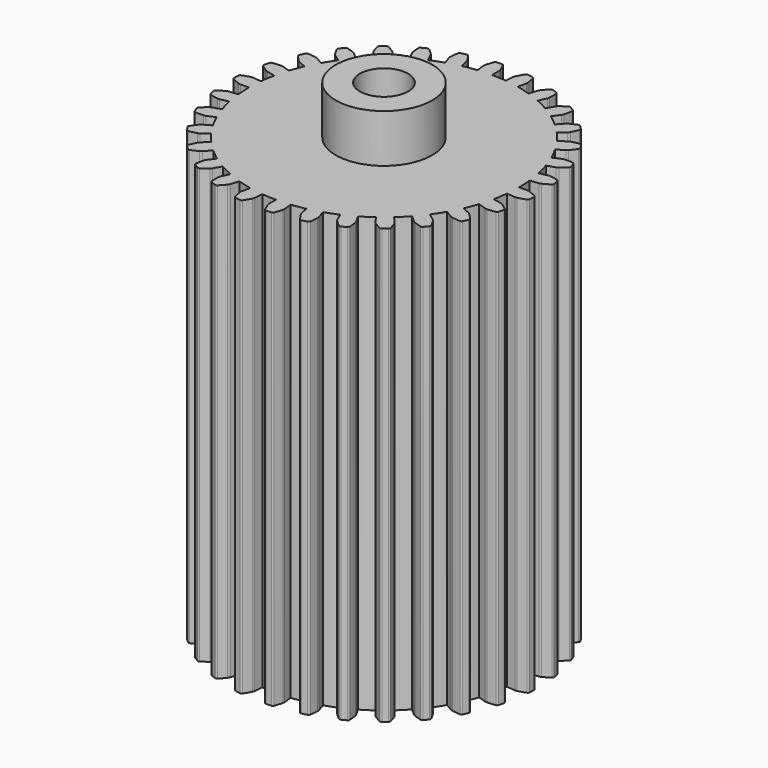
from build123d import *

# Parameters (mm, degrees)
F0_R     = 12.7
F1_DEPTH = 114.3
F2_DEPTH = 127
F3_D     = 12.7
F3_DEPTH = 127


with BuildPart() as f1:
    # F0 (on Top) → F1 (new body)
    with BuildSketch(Plane.XY):
        with BuildLine():
            ThreePointArc((-0.975145, 40.337935), (-1.170075, 40.5446), (-1.445487, 40.614285))
            ThreePointArc((-1.445487, 40.614285), (-2.126933, 40.584304), (-2.80778, 40.542891))
            ThreePointArc((-2.80778, 40.542891), (-3.0744, 40.444799), (-3.246659, 40.21889))
            ThreePointArc((-3.246659, 40.21889), (-3.605121, 39.208473), (-3.908206, 38.180088))
            ThreePointArc((-3.908206, 38.180088), (-3.95659, 37.89551), (-3.952642, 37.606876))
            Line((-3.952642, 37.606876), (-3.717032, 35.365199))
            ThreePointArc((-3.717032, 35.365199), (-5.56281, 35.122197), (-7.39334, 34.782929))
            Line((-7.39334, 34.782929), (-7.861978, 36.987698))
            ThreePointArc((-7.861978, 36.987698), (-7.947416, 37.263426), (-8.081371, 37.519124))
            ThreePointArc((-8.081371, 37.519124), (-8.687411, 38.403518), (-9.340564, 39.253711))
            ThreePointArc((-9.340564, 39.253711), (-9.574202, 39.415331), (-9.858084, 39.426232))
            ThreePointArc((-9.858084, 39.426232), (-10.518406, 39.255226), (-11.175764, 39.073161))
            ThreePointArc((-11.175764, 39.073161), (-11.416163, 38.921779), (-11.537689, 38.664993))
            ThreePointArc((-11.537689, 38.664993), (-11.67824, 37.602127), (-11.760889, 36.5332))
            ThreePointArc((-11.760889, 36.5332), (-11.749049, 36.244781), (-11.685176, 35.963275))
            Line((-11.685176, 35.963275), (-10.988644, 33.81957))
            ThreePointArc((-10.988644, 33.81957), (-12.743564, 33.19812), (-14.463555, 32.485676))
            Line((-14.463555, 32.485676), (-15.38035, 34.544831))
            ThreePointArc((-15.38035, 34.544831), (-15.521248, 34.79677), (-15.705438, 35.019029))
            ThreePointArc((-15.705438, 35.019029), (-16.48211, 35.758094), (-17.297756, 36.45391))
            ThreePointArc((-17.297756, 36.45391), (-17.559891, 36.563423), (-17.839836, 36.515063))
            ThreePointArc((-17.839836, 36.515063), (-18.450174, 36.210505), (-19.055314, 35.895746))
            ThreePointArc((-19.055314, 35.895746), (-19.258985, 35.697691), (-19.324467, 35.421249))
            ThreePointArc((-19.324467, 35.421249), (-19.240965, 34.352388), (-19.099565, 33.289635))
            ThreePointArc((-19.099565, 33.289635), (-19.028017, 33.009981), (-18.907013, 32.747907))
            Line((-18.907013, 32.747907), (-17.78, 30.795863))
            ThreePointArc((-17.78, 30.795863), (-19.367364, 29.823125), (-20.901644, 28.768644))
            Line((-20.901644, 28.768644), (-22.226526, 30.592189))
            ThreePointArc((-22.226526, 30.592189), (-22.416727, 30.809328), (-22.643102, 30.988435))
            ThreePointArc((-22.643102, 30.988435), (-23.556463, 31.549871), (-24.498953, 32.060899))
            ThreePointArc((-24.498953, 32.060899), (-24.778129, 32.113518), (-25.041902, 32.008011))
            ThreePointArc((-25.041902, 32.008011), (-25.575581, 31.583212), (-26.102055, 31.149516))
            ThreePointArc((-26.102055, 31.149516), (-26.260098, 30.913443), (-26.266673, 30.629427))
            ThreePointArc((-26.266673, 30.629427), (-25.962767, 29.601284), (-25.603498, 28.591154))
            ThreePointArc((-25.603498, 28.591154), (-25.475371, 28.332487), (-25.302522, 28.101297))
            Line((-25.302522, 28.101297), (-23.794284, 26.42623))
            ThreePointArc((-23.794284, 26.42623), (-25.144717, 25.144717), (-26.42623, 23.794284))
            Line((-26.42623, 23.794284), (-28.101297, 25.302522))
            ThreePointArc((-28.101297, 25.302522), (-28.332487, 25.475371), (-28.591154, 25.603498))
            ThreePointArc((-28.591154, 25.603498), (-29.601284, 25.962767), (-30.629427, 26.266673))
            ThreePointArc((-30.629427, 26.266673), (-30.913443, 26.260098), (-31.149516, 26.102055))
            ThreePointArc((-31.149516, 26.102055), (-31.583212, 25.575581), (-32.008011, 25.041902))
            ThreePointArc((-32.008011, 25.041902), (-32.113518, 24.778129), (-32.060899, 24.498953))
            ThreePointArc((-32.060899, 24.498953), (-31.549871, 23.556463), (-30.988435, 22.643102))
            ThreePointArc((-30.988435, 22.643102), (-30.809328, 22.416727), (-30.592189, 22.226526))
            Line((-30.592189, 22.226526), (-28.768644, 20.901644))
            ThreePointArc((-28.768644, 20.901644), (-29.823125, 19.367364), (-30.795863, 17.78))
            Line((-30.795863, 17.78), (-32.747907, 18.907013))
            ThreePointArc((-32.747907, 18.907013), (-33.009981, 19.028017), (-33.289635, 19.099565))
            ThreePointArc((-33.289635, 19.099565), (-34.352388, 19.240965), (-35.421249, 19.324467))
            ThreePointArc((-35.421249, 19.324467), (-35.697691, 19.258985), (-35.895746, 19.055314))
            ThreePointArc((-35.895746, 19.055314), (-36.210505, 18.450174), (-36.515063, 17.839836))
            ThreePointArc((-36.515063, 17.839836), (-36.563423, 17.559891), (-36.45391, 17.297756))
            ThreePointArc((-36.45391, 17.297756), (-35.758094, 16.48211), (-35.019029, 15.705438))
            ThreePointArc((-35.019029, 15.705438), (-34.79677, 15.521248), (-34.544831, 15.38035))
            Line((-34.544831, 15.38035), (-32.485676, 14.463555))
            ThreePointArc((-32.485676, 14.463555), (-33.19812, 12.743564), (-33.81957, 10.988644))
            Line((-33.81957, 10.988644), (-35.963275, 11.685176))
            ThreePointArc((-35.963275, 11.685176), (-36.244781, 11.749049), (-36.5332, 11.760889))
            ThreePointArc((-36.5332, 11.760889), (-37.602127, 11.67824), (-38.664993, 11.537689))
            ThreePointArc((-38.664993, 11.537689), (-38.921779, 11.416163), (-39.073161, 11.175764))
            ThreePointArc((-39.073161, 11.175764), (-39.255226, 10.518406), (-39.426232, 9.858084))
            ThreePointArc((-39.426232, 9.858084), (-39.415331, 9.574202), (-39.253711, 9.340564))
            ThreePointArc((-39.253711, 9.340564), (-38.403518, 8.687411), (-37.519124, 8.081371))
            ThreePointArc((-37.519124, 8.081371), (-37.263426, 7.947416), (-36.987698, 7.861978))
            Line((-36.987698, 7.861978), (-34.782929, 7.39334))
            ThreePointArc((-34.782929, 7.39334), (-35.122197, 5.56281), (-35.365199, 3.717032))
            Line((-35.365199, 3.717032), (-37.606876, 3.952642))
            ThreePointArc((-37.606876, 3.952642), (-37.89551, 3.95659), (-38.180088, 3.908206))
            ThreePointArc((-38.180088, 3.908206), (-39.208473, 3.605121), (-40.21889, 3.246659))
            ThreePointArc((-40.21889, 3.246659), (-40.444799, 3.0744), (-40.542891, 2.80778))
            ThreePointArc((-40.542891, 2.80778), (-40.584304, 2.126933), (-40.614285, 1.445487))
            ThreePointArc((-40.614285, 1.445487), (-40.5446, 1.170075), (-40.337935, 0.975145))
            ThreePointArc((-40.337935, 0.975145), (-39.370523, 0.51303), (-38.379452, 0.104109))
            ThreePointArc((-38.379452, 0.104109), (-38.101491, 0.026244), (-37.814025, 0))
            Line((-37.814025, 0), (-35.56, 0))
            ThreePointArc((-35.56, 0), (-35.511266, -1.861067), (-35.365199, -3.717032))
            Line((-35.365199, -3.717032), (-37.606876, -3.952642))
            ThreePointArc((-37.606876, -3.952642), (-37.890024, -4.008791), (-38.158323, -4.115284))
            ThreePointArc((-38.158323, -4.115284), (-39.101221, -4.625559), (-40.015029, -5.186266))
            ThreePointArc((-40.015029, -5.186266), (-40.200186, -5.40173), (-40.240701, -5.682917))
            ThreePointArc((-40.240701, -5.682917), (-40.139654, -6.357497), (-40.027299, -7.030285))
            ThreePointArc((-40.027299, -7.030285), (-39.901876, -7.28519), (-39.659199, -7.432892))
            ThreePointArc((-39.659199, -7.432892), (-38.616847, -7.683773), (-37.562415, -7.877703))
            ThreePointArc((-37.562415, -7.877703), (-37.274339, -7.896075), (-36.987698, -7.861978))
            Line((-36.987698, -7.861978), (-34.782929, -7.39334))
            ThreePointArc((-34.782929, -7.39334), (-34.348322, -9.203605), (-33.81957, -10.988644))
            Line((-33.81957, -10.988644), (-35.963275, -11.685176))
            ThreePointArc((-35.963275, -11.685176), (-36.228562, -11.798968), (-36.468857, -11.958917))
            ThreePointArc((-36.468857, -11.958917), (-37.285058, -12.654081), (-38.06232, -13.392526))
            ThreePointArc((-38.06232, -13.392526), (-38.198633, -13.641778), (-38.179801, -13.925244))
            ThreePointArc((-38.179801, -13.925244), (-37.940709, -14.564073), (-37.690928, -15.1988))
            ThreePointArc((-37.690928, -15.1988), (-37.515248, -15.422058), (-37.247165, -15.516077))
            ThreePointArc((-37.247165, -15.516077), (-36.17543, -15.544758), (-35.103719, -15.515221))
            ThreePointArc((-35.103719, -15.515221), (-34.818119, -15.473297), (-34.544831, -15.38035))
            Line((-34.544831, -15.38035), (-32.485676, -14.463555))
            ThreePointArc((-32.485676, -14.463555), (-31.684192, -16.143902), (-30.795863, -17.78))
            Line((-30.795863, -17.78), (-32.747907, -18.907013))
            ThreePointArc((-32.747907, -18.907013), (-32.983737, -19.073474), (-33.185526, -19.279887))
            ThreePointArc((-33.185526, -19.279887), (-33.839358, -20.129558), (-34.446104, -21.013468))
            ThreePointArc((-34.446104, -21.013468), (-34.527616, -21.285615), (-34.450259, -21.558971))
            ThreePointArc((-34.450259, -21.558971), (-34.083572, -22.13413), (-33.707283, -22.703054))
            ThreePointArc((-33.707283, -22.703054), (-33.489023, -22.884908), (-33.207251, -22.921134))
            ThreePointArc((-33.207251, -22.921134), (-32.152973, -22.726363), (-31.110823, -22.47465))
            ThreePointArc((-31.110823, -22.47465), (-30.84018, -22.374263), (-30.592189, -22.226526))
            Line((-30.592189, -22.226526), (-28.768644, -20.901644))
            ThreePointArc((-28.768644, -20.901644), (-27.63531, -22.378633), (-26.42623, -23.794284))
            Line((-26.42623, -23.794284), (-28.101297, -25.302522))
            ThreePointArc((-28.101297, -25.302522), (-28.297365, -25.514377), (-28.451829, -25.758234))
            ThreePointArc((-28.451829, -25.758234), (-28.914717, -26.725277), (-29.324428, -27.716021))
            ThreePointArc((-29.324428, -27.716021), (-29.347577, -27.999168), (-29.215076, -28.250468))
            ThreePointArc((-29.215076, -28.250468), (-28.73682, -28.73682), (-28.250468, -29.215076))
            ThreePointArc((-28.250468, -29.215076), (-27.999168, -29.347577), (-27.716021, -29.324428))
            ThreePointArc((-27.716021, -29.324428), (-26.725277, -28.914717), (-25.758234, -28.451829))
            ThreePointArc((-25.758234, -28.451829), (-25.514377, -28.297365), (-25.302522, -28.101297))
            Line((-25.302522, -28.101297), (-23.794284, -26.42623))
            ThreePointArc((-23.794284, -26.42623), (-22.378633, -27.63531), (-20.901644, -28.768644))
            Line((-20.901644, -28.768644), (-22.226526, -30.592189))
            ThreePointArc((-22.226526, -30.592189), (-22.374263, -30.84018), (-22.47465, -31.110823))
            ThreePointArc((-22.47465, -31.110823), (-22.726363, -32.152973), (-22.921134, -33.207251))
            ThreePointArc((-22.921134, -33.207251), (-22.884908, -33.489023), (-22.703054, -33.707283))
            ThreePointArc((-22.703054, -33.707283), (-22.13413, -34.083572), (-21.558971, -34.450259))
            ThreePointArc((-21.558971, -34.450259), (-21.285615, -34.527616), (-21.013468, -34.446104))
            ThreePointArc((-21.013468, -34.446104), (-20.129558, -33.839358), (-19.279887, -33.185526))
            ThreePointArc((-19.279887, -33.185526), (-19.073474, -32.983737), (-18.907013, -32.747907))
            Line((-18.907013, -32.747907), (-17.78, -30.795863))
            ThreePointArc((-17.78, -30.795863), (-16.143902, -31.684192), (-14.463555, -32.485676))
            Line((-14.463555, -32.485676), (-15.38035, -34.544831))
            ThreePointArc((-15.38035, -34.544831), (-15.473297, -34.818119), (-15.515221, -35.103719))
            ThreePointArc((-15.515221, -35.103719), (-15.544758, -36.17543), (-15.516077, -37.247165))
            ThreePointArc((-15.516077, -37.247165), (-15.422058, -37.515248), (-15.1988, -37.690928))
            ThreePointArc((-15.1988, -37.690928), (-14.564073, -37.940709), (-13.925244, -38.179801))
            ThreePointArc((-13.925244, -38.179801), (-13.641778, -38.198633), (-13.392526, -38.06232))
            ThreePointArc((-13.392526, -38.06232), (-12.654081, -37.285058), (-11.958917, -36.468857))
            ThreePointArc((-11.958917, -36.468857), (-11.798968, -36.228562), (-11.685176, -35.963275))
            Line((-11.685176, -35.963275), (-10.988644, -33.81957))
            ThreePointArc((-10.988644, -33.81957), (-9.203605, -34.348322), (-7.39334, -34.782929))
            Line((-7.39334, -34.782929), (-7.861978, -36.987698))
            ThreePointArc((-7.861978, -36.987698), (-7.896075, -37.274339), (-7.877703, -37.562415))
            ThreePointArc((-7.877703, -37.562415), (-7.683773, -38.616847), (-7.432892, -39.659199))
            ThreePointArc((-7.432892, -39.659199), (-7.28519, -39.901876), (-7.030285, -40.027299))
            ThreePointArc((-7.030285, -40.027299), (-6.357497, -40.139654), (-5.682917, -40.240701))
            ThreePointArc((-5.682917, -40.240701), (-5.40173, -40.200186), (-5.186266, -40.015029))
            ThreePointArc((-5.186266, -40.015029), (-4.625559, -39.101221), (-4.115284, -38.158323))
            ThreePointArc((-4.115284, -38.158323), (-4.008791, -37.890024), (-3.952642, -37.606876))
            Line((-3.952642, -37.606876), (-3.717032, -35.365199))
            ThreePointArc((-3.717032, -35.365199), (-1.861067, -35.511266), (0, -35.56))
            Line((0, -35.56), (0, -37.814025))
            ThreePointArc((0, -37.814025), (0.026244, -38.101491), (0.104109, -38.379452))
            ThreePointArc((0.104109, -38.379452), (0.51303, -39.370523), (0.975145, -40.337935))
            ThreePointArc((0.975145, -40.337935), (1.170075, -40.5446), (1.445487, -40.614285))
            ThreePointArc((1.445487, -40.614285), (2.126933, -40.584304), (2.80778, -40.542891))
            ThreePointArc((2.80778, -40.542891), (3.0744, -40.444799), (3.246659, -40.21889))
            ThreePointArc((3.246659, -40.21889), (3.605121, -39.208473), (3.908206, -38.180088))
            ThreePointArc((3.908206, -38.180088), (3.95659, -37.89551), (3.952642, -37.606876))
            Line((3.952642, -37.606876), (3.717032, -35.365199))
            ThreePointArc((3.717032, -35.365199), (5.56281, -35.122197), (7.39334, -34.782929))
            Line((7.39334, -34.782929), (7.861978, -36.987698))
            ThreePointArc((7.861978, -36.987698), (7.947416, -37.263426), (8.081371, -37.519124))
            ThreePointArc((8.081371, -37.519124), (8.687411, -38.403518), (9.340564, -39.253711))
            ThreePointArc((9.340564, -39.253711), (9.574202, -39.415331), (9.858084, -39.426232))
            ThreePointArc((9.858084, -39.426232), (10.518406, -39.255226), (11.175764, -39.073161))
            ThreePointArc((11.175764, -39.073161), (11.416163, -38.921779), (11.537689, -38.664993))
            ThreePointArc((11.537689, -38.664993), (11.67824, -37.602127), (11.760889, -36.5332))
            ThreePointArc((11.760889, -36.5332), (11.749049, -36.244781), (11.685176, -35.963275))
            Line((11.685176, -35.963275), (10.988644, -33.81957))
            ThreePointArc((10.988644, -33.81957), (12.743564, -33.19812), (14.463555, -32.485676))
            Line((14.463555, -32.485676), (15.38035, -34.544831))
            ThreePointArc((15.38035, -34.544831), (15.521248, -34.79677), (15.705438, -35.019029))
            ThreePointArc((15.705438, -35.019029), (16.48211, -35.758094), (17.297756, -36.45391))
            ThreePointArc((17.297756, -36.45391), (17.559891, -36.563423), (17.839836, -36.515063))
            ThreePointArc((17.839836, -36.515063), (18.450174, -36.210505), (19.055314, -35.895746))
            ThreePointArc((19.055314, -35.895746), (19.258985, -35.697691), (19.324467, -35.421249))
            ThreePointArc((19.324467, -35.421249), (19.240965, -34.352388), (19.099565, -33.289635))
            ThreePointArc((19.099565, -33.289635), (19.028017, -33.009981), (18.907013, -32.747907))
            Line((18.907013, -32.747907), (17.78, -30.795863))
            ThreePointArc((17.78, -30.795863), (19.367364, -29.823125), (20.901644, -28.768644))
            Line((20.901644, -28.768644), (22.226526, -30.592189))
            ThreePointArc((22.226526, -30.592189), (22.416727, -30.809328), (22.643102, -30.988435))
            ThreePointArc((22.643102, -30.988435), (23.556463, -31.549871), (24.498953, -32.060899))
            ThreePointArc((24.498953, -32.060899), (24.778129, -32.113518), (25.041902, -32.008011))
            ThreePointArc((25.041902, -32.008011), (25.575581, -31.583212), (26.102055, -31.149516))
            ThreePointArc((26.102055, -31.149516), (26.260098, -30.913443), (26.266673, -30.629427))
            ThreePointArc((26.266673, -30.629427), (25.962767, -29.601284), (25.603498, -28.591154))
            ThreePointArc((25.603498, -28.591154), (25.475371, -28.332487), (25.302522, -28.101297))
            Line((25.302522, -28.101297), (23.794284, -26.42623))
            ThreePointArc((23.794284, -26.42623), (25.144717, -25.144717), (26.42623, -23.794284))
            Line((26.42623, -23.794284), (28.101297, -25.302522))
            ThreePointArc((28.101297, -25.302522), (28.332487, -25.475371), (28.591154, -25.603498))
            ThreePointArc((28.591154, -25.603498), (29.601284, -25.962767), (30.629427, -26.266673))
            ThreePointArc((30.629427, -26.266673), (30.913443, -26.260098), (31.149516, -26.102055))
            ThreePointArc((31.149516, -26.102055), (31.583212, -25.575581), (32.008011, -25.041902))
            ThreePointArc((32.008011, -25.041902), (32.113518, -24.778129), (32.060899, -24.498953))
            ThreePointArc((32.060899, -24.498953), (31.549871, -23.556463), (30.988435, -22.643102))
            ThreePointArc((30.988435, -22.643102), (30.809328, -22.416727), (30.592189, -22.226526))
            Line((30.592189, -22.226526), (28.768644, -20.901644))
            ThreePointArc((28.768644, -20.901644), (29.823125, -19.367364), (30.795863, -17.78))
            Line((30.795863, -17.78), (32.747907, -18.907013))
            ThreePointArc((32.747907, -18.907013), (33.009981, -19.028017), (33.289635, -19.099565))
            ThreePointArc((33.289635, -19.099565), (34.352388, -19.240965), (35.421249, -19.324467))
            ThreePointArc((35.421249, -19.324467), (35.697691, -19.258985), (35.895746, -19.055314))
            ThreePointArc((35.895746, -19.055314), (36.210505, -18.450174), (36.515063, -17.839836))
            ThreePointArc((36.515063, -17.839836), (36.563423, -17.559891), (36.45391, -17.297756))
            ThreePointArc((36.45391, -17.297756), (35.758094, -16.48211), (35.019029, -15.705438))
            ThreePointArc((35.019029, -15.705438), (34.79677, -15.521248), (34.544831, -15.38035))
            Line((34.544831, -15.38035), (32.485676, -14.463555))
            ThreePointArc((32.485676, -14.463555), (33.19812, -12.743564), (33.81957, -10.988644))
            Line((33.81957, -10.988644), (35.963275, -11.685176))
            ThreePointArc((35.963275, -11.685176), (36.244781, -11.749049), (36.5332, -11.760889))
            ThreePointArc((36.5332, -11.760889), (37.602127, -11.67824), (38.664993, -11.537689))
            ThreePointArc((38.664993, -11.537689), (38.921779, -11.416163), (39.073161, -11.175764))
            ThreePointArc((39.073161, -11.175764), (39.255226, -10.518406), (39.426232, -9.858084))
            ThreePointArc((39.426232, -9.858084), (39.415331, -9.574202), (39.253711, -9.340564))
            ThreePointArc((39.253711, -9.340564), (38.403518, -8.687411), (37.519124, -8.081371))
            ThreePointArc((37.519124, -8.081371), (37.263426, -7.947416), (36.987698, -7.861978))
            Line((36.987698, -7.861978), (34.782929, -7.39334))
            ThreePointArc((34.782929, -7.39334), (35.122197, -5.56281), (35.365199, -3.717032))
            Line((35.365199, -3.717032), (37.606876, -3.952642))
            ThreePointArc((37.606876, -3.952642), (37.89551, -3.95659), (38.180088, -3.908206))
            ThreePointArc((38.180088, -3.908206), (39.208473, -3.605121), (40.21889, -3.246659))
            ThreePointArc((40.21889, -3.246659), (40.444799, -3.0744), (40.542891, -2.80778))
            ThreePointArc((40.542891, -2.80778), (40.584304, -2.126933), (40.614285, -1.445487))
            ThreePointArc((40.614285, -1.445487), (40.5446, -1.170075), (40.337935, -0.975145))
            ThreePointArc((40.337935, -0.975145), (39.370523, -0.51303), (38.379452, -0.104109))
            ThreePointArc((38.379452, -0.104109), (38.101491, -0.026244), (37.814025, 0))
            Line((37.814025, 0), (35.56, 0))
            ThreePointArc((35.56, 0), (35.511266, 1.861067), (35.365199, 3.717032))
            Line((35.365199, 3.717032), (37.606876, 3.952642))
            ThreePointArc((37.606876, 3.952642), (37.890024, 4.008791), (38.158323, 4.115284))
            ThreePointArc((38.158323, 4.115284), (39.101221, 4.625559), (40.015029, 5.186266))
            ThreePointArc((40.015029, 5.186266), (40.200186, 5.40173), (40.240701, 5.682917))
            ThreePointArc((40.240701, 5.682917), (40.139654, 6.357497), (40.027299, 7.030285))
            ThreePointArc((40.027299, 7.030285), (39.901876, 7.28519), (39.659199, 7.432892))
            ThreePointArc((39.659199, 7.432892), (38.616847, 7.683773), (37.562415, 7.877703))
            ThreePointArc((37.562415, 7.877703), (37.274339, 7.896075), (36.987698, 7.861978))
            Line((36.987698, 7.861978), (34.782929, 7.39334))
            ThreePointArc((34.782929, 7.39334), (34.348322, 9.203605), (33.81957, 10.988644))
            Line((33.81957, 10.988644), (35.963275, 11.685176))
            ThreePointArc((35.963275, 11.685176), (36.228562, 11.798968), (36.468857, 11.958917))
            ThreePointArc((36.468857, 11.958917), (37.285058, 12.654081), (38.06232, 13.392526))
            ThreePointArc((38.06232, 13.392526), (38.198633, 13.641778), (38.179801, 13.925244))
            ThreePointArc((38.179801, 13.925244), (37.940709, 14.564073), (37.690928, 15.1988))
            ThreePointArc((37.690928, 15.1988), (37.515248, 15.422058), (37.247165, 15.516077))
            ThreePointArc((37.247165, 15.516077), (36.17543, 15.544758), (35.103719, 15.515221))
            ThreePointArc((35.103719, 15.515221), (34.818119, 15.473297), (34.544831, 15.38035))
            Line((34.544831, 15.38035), (32.485676, 14.463555))
            ThreePointArc((32.485676, 14.463555), (31.684192, 16.143902), (30.795863, 17.78))
            Line((30.795863, 17.78), (32.747907, 18.907013))
            ThreePointArc((32.747907, 18.907013), (32.983737, 19.073474), (33.185526, 19.279887))
            ThreePointArc((33.185526, 19.279887), (33.839358, 20.129558), (34.446104, 21.013468))
            ThreePointArc((34.446104, 21.013468), (34.527616, 21.285615), (34.450259, 21.558971))
            ThreePointArc((34.450259, 21.558971), (34.083572, 22.13413), (33.707283, 22.703054))
            ThreePointArc((33.707283, 22.703054), (33.489023, 22.884908), (33.207251, 22.921134))
            ThreePointArc((33.207251, 22.921134), (32.152973, 22.726363), (31.110823, 22.47465))
            ThreePointArc((31.110823, 22.47465), (30.84018, 22.374263), (30.592189, 22.226526))
            Line((30.592189, 22.226526), (28.768644, 20.901644))
            ThreePointArc((28.768644, 20.901644), (27.63531, 22.378633), (26.42623, 23.794284))
            Line((26.42623, 23.794284), (28.101297, 25.302522))
            ThreePointArc((28.101297, 25.302522), (28.297365, 25.514377), (28.451829, 25.758234))
            ThreePointArc((28.451829, 25.758234), (28.914717, 26.725277), (29.324428, 27.716021))
            ThreePointArc((29.324428, 27.716021), (29.347577, 27.999168), (29.215076, 28.250468))
            ThreePointArc((29.215076, 28.250468), (28.73682, 28.73682), (28.250468, 29.215076))
            ThreePointArc((28.250468, 29.215076), (27.999168, 29.347577), (27.716021, 29.324428))
            ThreePointArc((27.716021, 29.324428), (26.725277, 28.914717), (25.758234, 28.451829))
            ThreePointArc((25.758234, 28.451829), (25.514377, 28.297365), (25.302522, 28.101297))
            Line((25.302522, 28.101297), (23.794284, 26.42623))
            ThreePointArc((23.794284, 26.42623), (22.378633, 27.63531), (20.901644, 28.768644))
            Line((20.901644, 28.768644), (22.226526, 30.592189))
            ThreePointArc((22.226526, 30.592189), (22.374263, 30.84018), (22.47465, 31.110823))
            ThreePointArc((22.47465, 31.110823), (22.726363, 32.152973), (22.921134, 33.207251))
            ThreePointArc((22.921134, 33.207251), (22.884908, 33.489023), (22.703054, 33.707283))
            ThreePointArc((22.703054, 33.707283), (22.13413, 34.083572), (21.558971, 34.450259))
            ThreePointArc((21.558971, 34.450259), (21.285615, 34.527616), (21.013468, 34.446104))
            ThreePointArc((21.013468, 34.446104), (20.129558, 33.839358), (19.279887, 33.185526))
            ThreePointArc((19.279887, 33.185526), (19.073474, 32.983737), (18.907013, 32.747907))
            Line((18.907013, 32.747907), (17.78, 30.795863))
            ThreePointArc((17.78, 30.795863), (16.143902, 31.684192), (14.463555, 32.485676))
            Line((14.463555, 32.485676), (15.38035, 34.544831))
            ThreePointArc((15.38035, 34.544831), (15.473297, 34.818119), (15.515221, 35.103719))
            ThreePointArc((15.515221, 35.103719), (15.544758, 36.17543), (15.516077, 37.247165))
            ThreePointArc((15.516077, 37.247165), (15.422058, 37.515248), (15.1988, 37.690928))
            ThreePointArc((15.1988, 37.690928), (14.564073, 37.940709), (13.925244, 38.179801))
            ThreePointArc((13.925244, 38.179801), (13.641778, 38.198633), (13.392526, 38.06232))
            ThreePointArc((13.392526, 38.06232), (12.654081, 37.285058), (11.958917, 36.468857))
            ThreePointArc((11.958917, 36.468857), (11.798968, 36.228562), (11.685176, 35.963275))
            Line((11.685176, 35.963275), (10.988644, 33.81957))
            ThreePointArc((10.988644, 33.81957), (9.203605, 34.348322), (7.39334, 34.782929))
            Line((7.39334, 34.782929), (7.861978, 36.987698))
            ThreePointArc((7.861978, 36.987698), (7.896075, 37.274339), (7.877703, 37.562415))
            ThreePointArc((7.877703, 37.562415), (7.683773, 38.616847), (7.432892, 39.659199))
            ThreePointArc((7.432892, 39.659199), (7.28519, 39.901876), (7.030285, 40.027299))
            ThreePointArc((7.030285, 40.027299), (6.357497, 40.139654), (5.682917, 40.240701))
            ThreePointArc((5.682917, 40.240701), (5.40173, 40.200186), (5.186266, 40.015029))
            ThreePointArc((5.186266, 40.015029), (4.625559, 39.101221), (4.115284, 38.158323))
            ThreePointArc((4.115284, 38.158323), (4.008791, 37.890024), (3.952642, 37.606876))
            Line((3.952642, 37.606876), (3.717032, 35.365199))
            ThreePointArc((3.717032, 35.365199), (1.861067, 35.511266), (0, 35.56))
            Line((0, 35.56), (0, 37.814025))
            ThreePointArc((0, 37.814025), (-0.026244, 38.101491), (-0.104109, 38.379452))
            ThreePointArc((-0.104109, 38.379452), (-0.51303, 39.370523), (-0.975145, 40.337935))
        make_face()
        Circle(F0_R, mode=Mode.SUBTRACT)
    extrude(amount=F1_DEPTH)

    # F0 (on Top) → F2 (join)
    with BuildSketch(Plane.XY):
        Circle(F0_R)
    extrude(amount=F2_DEPTH)

    # F3
    with Locations(Plane(origin=(0, 0, 0), x_dir=(1, 0, 0), z_dir=(0, 0, -1))):
        with Locations((0, 0)):
            Hole(F3_D / 2, depth=F3_DEPTH)


solid = f1.part
